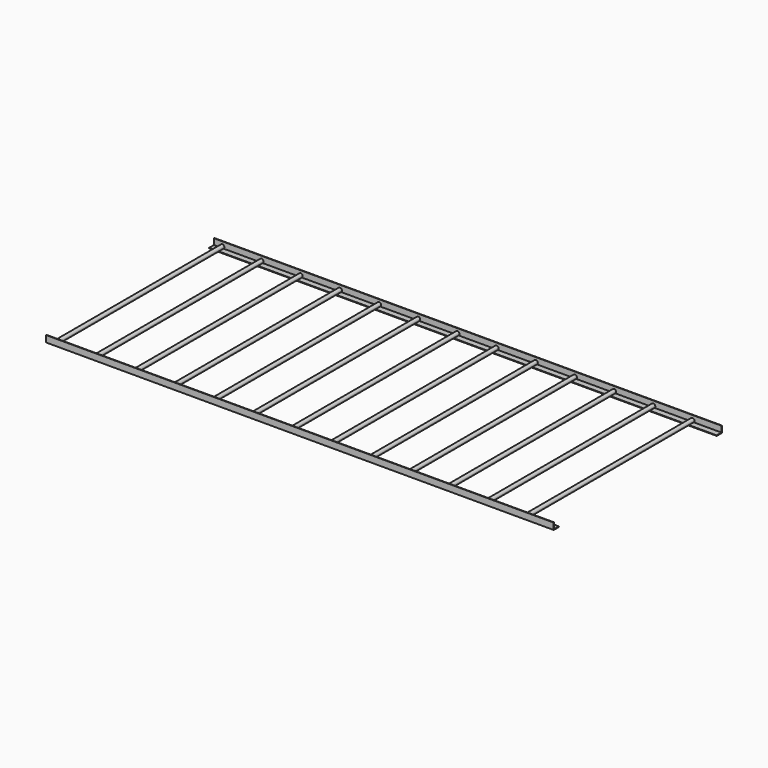
from build123d import *

# Parameters (mm, degrees)
BOX001_W       = 3887
BOX001_H       = 50
BOX001_DEPTH   = 50
BOX_W          = 3887
BOX_H          = 50
BOX_DEPTH      = 50
BOX003_W       = 3887
BOX003_H       = 50
BOX003_DEPTH   = 50
BOX002_W       = 3887
BOX002_H       = 50
BOX002_DEPTH   = 50
CYLINDER_R     = 15
CYLINDER_DEPTH = 1590
ARRAY_X_COUNT  = 13
ARRAY_X_PITCH  = 300


with BuildPart() as cube001:
    # Box001 → Box001 (new body)
    with BuildSketch(Plane(origin=(0, 4, 4), x_dir=(1, 0, 0), z_dir=(0, 0, 1))):
        with Locations((1943.5, 25)):
            Rectangle(BOX001_W, BOX001_H)
    extrude(amount=BOX001_DEPTH)


with BuildPart() as cut:
    # Box → Box (new body)
    with BuildSketch(Plane.XY):
        with Locations((1943.5, 25)):
            Rectangle(BOX_W, BOX_H)
    extrude(amount=BOX_DEPTH)

    # Cut: cut Cube001
    add(cube001.part, mode=Mode.SUBTRACT)


with BuildPart() as cube003:
    # Box003 → Box003 (new body)
    with BuildSketch(Plane(origin=(0, 1606, 4), x_dir=(1, 0, 0), z_dir=(0, 0, 1))):
        with Locations((1943.5, 25)):
            Rectangle(BOX003_W, BOX003_H)
    extrude(amount=BOX003_DEPTH)


with BuildPart() as cut001:
    # Box002 → Box002 (new body)
    with BuildSketch(Plane(origin=(0, 1610, 0), x_dir=(1, 0, 0), z_dir=(0, 0, 1))):
        with Locations((1943.5, 25)):
            Rectangle(BOX002_W, BOX002_H)
    extrude(amount=BOX002_DEPTH)

    # Cut001: cut Cube003
    add(cube003.part, mode=Mode.SUBTRACT)


with BuildPart() as cut001_1:
    # Cut001 placement: moved
    add(cut001.part.moved(Location((0, -50, 0))))


with BuildPart() as array:
    # Cylinder → Cylinder (new body)
    with BuildSketch(Plane(origin=(70, 10, 20), x_dir=(1, 0, 0), z_dir=(0, 1, 0))):
        Circle(CYLINDER_R)
    extrude(amount=CYLINDER_DEPTH)

    # Array X: Array ×13


with BuildPart() as array_1:
    add(array.part)
    with Locations(*[(i * ARRAY_X_PITCH, 0, 0) for i in range(1, ARRAY_X_COUNT)]):
        add(array.part)


solid = Compound([cut.part, cut001_1.part, array_1.part])
